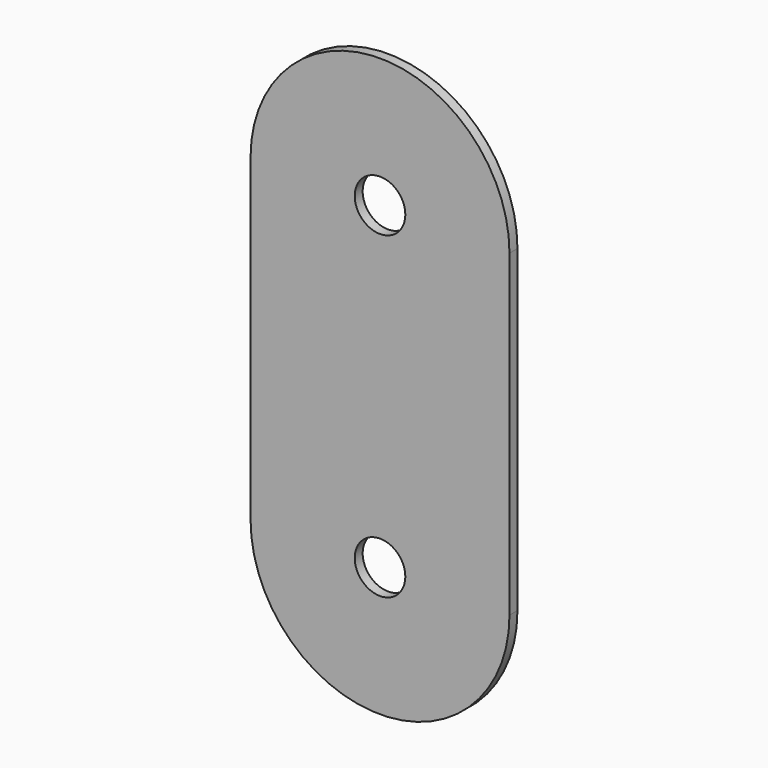
from build123d import *

# Parameters (mm, degrees)
F0_R     = 2.54
F1_DEPTH = 1


with BuildPart() as f1:
    # F0 (on Front) → F1 (new body)
    with BuildSketch(Plane.XZ):
        with BuildLine():
            ThreePointArc((13, 16), (0, 3), (-13, 16))
            Line((-13, 16), (-13, -16))
            ThreePointArc((-13, -16), (0, -3), (13, -16))
            Line((13, -16), (13, 16))
        make_face()
        with BuildLine():
            ThreePointArc((13, 16), (0, 29), (-13, 16))
            ThreePointArc((-13, 16), (0, 3), (13, 16))
        make_face()
        with Locations((0, 16)):
            Circle(F0_R, mode=Mode.SUBTRACT)
        with BuildLine():
            ThreePointArc((13, -16), (0, -3), (-13, -16))
            ThreePointArc((-13, -16), (0, -29), (13, -16))
        make_face()
        with Locations((0, -16)):
            Circle(F0_R, mode=Mode.SUBTRACT)
    extrude(amount=F1_DEPTH)


solid = f1.part
